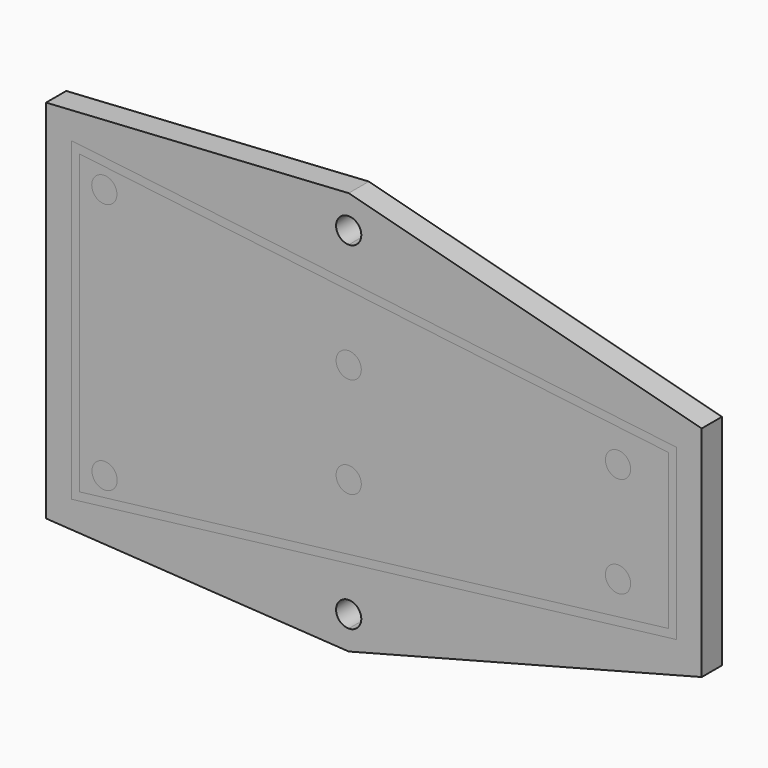
from build123d import *

# Parameters (mm, degrees)
F0_R     = 3.175
F1_DEPTH = 6.35
F2_DEPTH = 6.35
F3_DEPTH = 5.08
F4_DEPTH = 9.525


with BuildPart() as f1:
    # F0 (on Front) → F1 (new body)
    with BuildSketch(Plane.XZ):
        with BuildLine():
            Line((0, 9.525), (0, 0))
            Line((0, 0), (80.518, 0))
            Line((80.518, 0), (80.518, 19.5096507962))
            Line((80.518, 19.5096507962), (0, 29.2523287962))
            Line((0, 29.2523287962), (0, 15.875))
            ThreePointArc((0, 15.875), (2.2450640303, 14.9450640303), (3.175, 12.7))
            ThreePointArc((3.175, 12.7), (2.2450640303, 10.4549359697), (0, 9.525))
        make_face()
        with Locations((67.818, 12.7)):
            Circle(F0_R, mode=Mode.SUBTRACT)
        with BuildLine():
            Line((-67.818, 0), (0, 0))
            Line((0, 0), (0, 9.525))
            ThreePointArc((0, 9.525), (-3.175, 12.7), (0, 15.875))
            Line((0, 15.875), (0, 29.2523287962))
            Line((0, 29.2523287962), (-67.818, 37.4583067962))
            Line((-67.818, 37.4583067962), (-67.818, 31.567312777))
            Line((-67.818, 31.567312777), (-67.818, 0))
        make_face()
        with BuildLine():
            ThreePointArc((-58.3583989263, 31.567312777), (-61.5333989263, 28.392312777), (-64.7083989263, 31.567312777))
            ThreePointArc((-64.7083989263, 31.567312777), (-61.5333989263, 34.742312777), (-58.3583989263, 31.567312777))
        make_face(mode=Mode.SUBTRACT)
        with BuildLine():
            Line((0, -9.525), (0, 0))
            Line((0, 0), (-67.818, 0))
            Line((-67.818, 0), (-67.818, -31.8008))
            Line((-67.818, -31.8008), (-67.818, -37.4583067962))
            Line((-67.818, -37.4583067962), (0, -29.2523287962))
            Line((0, -29.2523287962), (0, -15.875))
            ThreePointArc((0, -15.875), (-3.175, -12.7), (0, -9.525))
        make_face()
        with BuildLine():
            ThreePointArc((-58.293, -31.8008), (-61.468, -34.9758), (-64.643, -31.8008))
            ThreePointArc((-64.643, -31.8008), (-61.468, -28.6258), (-58.293, -31.8008))
        make_face(mode=Mode.SUBTRACT)
        with BuildLine():
            Line((80.518, 0), (0, 0))
            Line((0, 0), (0, -9.525))
            ThreePointArc((0, -9.525), (2.2450640303, -10.4549359697), (3.175, -12.7))
            ThreePointArc((3.175, -12.7), (2.2450640303, -14.9450640303), (0, -15.875))
            Line((0, -15.875), (0, -29.2523287962))
            Line((0, -29.2523287962), (80.518, -19.5096507962))
            Line((80.518, -19.5096507962), (80.518, 0))
        make_face()
        with Locations((67.818, -12.7)):
            Circle(F0_R, mode=Mode.SUBTRACT)
    extrude(amount=-F1_DEPTH)


with BuildPart() as f2:
    # F0 (on Front) → F2 (new body)
    with BuildSketch(Plane.XZ):
        with BuildLine():
            Line((82.55, 21.3106), (82.55, 0))
            Line((82.55, 0), (88.9, 0))
            Line((88.9, 0), (88.9, 27.559))
            Line((88.9, 27.559), (0, 50.8))
            Line((0, 50.8), (0, 45.72))
            ThreePointArc((0, 45.72), (2.2450640303, 44.7900640303), (3.175, 42.545))
            ThreePointArc((3.175, 42.545), (2.2450640303, 40.2999359697), (0, 39.37))
            Line((0, 39.37), (0, 31.29915))
            Line((0, 31.29915), (82.55, 21.3106))
        make_face()
        with BuildLine():
            Line((88.9, 0), (82.55, 0))
            Line((82.55, 0), (82.55, -21.3106))
            Line((82.55, -21.3106), (0, -31.29915))
            Line((0, -31.29915), (0, -39.37))
            ThreePointArc((0, -39.37), (2.2450640303, -40.2999359697), (3.175, -42.545))
            ThreePointArc((3.175, -42.545), (2.2450640303, -44.7900640303), (0, -45.72))
            Line((0, -45.72), (0, -50.8))
            Line((0, -50.8), (88.9, -27.559))
            Line((88.9, -27.559), (88.9, 0))
        make_face()
        with BuildLine():
            Line((-69.85, -37.7041787962), (-69.85, 0))
            Line((-69.85, 0), (-76.2, 0))
            Line((-76.2, 0), (-76.2, -46.101))
            Line((-76.2, -46.101), (0, -50.8))
            Line((0, -50.8), (0, -45.72))
            ThreePointArc((0, -45.72), (-3.175, -42.545), (0, -39.37))
            Line((0, -39.37), (0, -31.29915))
            Line((0, -31.29915), (-67.818, -39.505128))
            Line((-67.818, -39.505128), (-69.85, -39.751))
            Line((-69.85, -39.751), (-69.85, -37.7041787962))
        make_face()
        with BuildLine():
            Line((-76.2, 0), (-69.85, 0))
            Line((-69.85, 0), (-69.85, 37.7041787962))
            Line((-69.85, 37.7041787962), (-69.85, 39.751))
            Line((-69.85, 39.751), (-67.818, 39.505128))
            Line((-67.818, 39.505128), (0, 31.29915))
            Line((0, 31.29915), (0, 39.37))
            ThreePointArc((0, 39.37), (-3.175, 42.545), (0, 45.72))
            Line((0, 45.72), (0, 50.8))
            Line((0, 50.8), (-76.2, 46.101))
            Line((-76.2, 46.101), (-76.2, 0))
        make_face()
    extrude(amount=-F2_DEPTH)


with BuildPart() as f3:
    # F0 (on Front) → F3 (new body)
    with BuildSketch(Plane.XZ):
        Polygon((80.518, 19.5096507962), (80.518, 0), (82.55, 0), (82.55, 21.3106), (0, 31.29915), (0, 29.2523287962), align=None)
        Polygon((-67.818, 37.4583067962), (0, 29.2523287962), (0, 31.29915), (-67.818, 39.505128), align=None)
        Polygon((-69.85, 0), (-67.818, 0), (-67.818, 31.567312777), (-67.818, 37.4583067962), (-69.85, 37.7041787962), align=None)
        Polygon((-69.85, 39.751), (-69.85, 37.7041787962), (-67.818, 37.4583067962), (-67.818, 39.505128), align=None)
        Polygon((-67.818, -31.8008), (-67.818, 0), (-69.85, 0), (-69.85, -37.7041787962), (-67.818, -37.4583067962), align=None)
        Polygon((-67.818, -37.4583067962), (-69.85, -37.7041787962), (-69.85, -39.751), (-67.818, -39.505128), align=None)
        Polygon((0, -31.29915), (0, -29.2523287962), (-67.818, -37.4583067962), (-67.818, -39.505128), align=None)
        Polygon((82.55, 0), (80.518, 0), (80.518, -19.5096507962), (0, -29.2523287962), (0, -31.29915), (82.55, -21.3106), align=None)
    extrude(amount=-F3_DEPTH)


with BuildPart() as f4:
    # F0 (on Front) → F4 (new body)
    with BuildSketch(Plane.XZ):
        with BuildLine():
            ThreePointArc((-58.3583989263, 31.567312777), (-61.5333989263, 34.742312777), (-64.7083989263, 31.567312777))
            ThreePointArc((-64.7083989263, 31.567312777), (-61.5333989263, 28.392312777), (-58.3583989263, 31.567312777))
        make_face()
    extrude(amount=-F4_DEPTH)


with BuildPart() as f4b:
    # F0 (on Front) → F4, piece 2 (new body)
    with BuildSketch(Plane.XZ):
        with BuildLine():
            ThreePointArc((-58.293, -31.8008), (-61.468, -28.6258), (-64.643, -31.8008))
            ThreePointArc((-64.643, -31.8008), (-61.468, -34.9758), (-58.293, -31.8008))
        make_face()
    extrude(amount=-F4_DEPTH)


with BuildPart() as f4c:
    # F0 (on Front) → F4, piece 3 (new body)
    with BuildSketch(Plane.XZ):
        with Locations((67.818, -12.7)):
            Circle(F0_R)
    extrude(amount=-F4_DEPTH)


with BuildPart() as f4d:
    # F0 (on Front) → F4, piece 4 (new body)
    with BuildSketch(Plane.XZ):
        with BuildLine():
            Line((0, -15.875), (0, -9.525))
            ThreePointArc((0, -9.525), (-3.175, -12.7), (0, -15.875))
        make_face()
        with BuildLine():
            ThreePointArc((3.175, -12.7), (2.2450640303, -10.4549359697), (0, -9.525))
            Line((0, -9.525), (0, -15.875))
            ThreePointArc((0, -15.875), (2.2450640303, -14.9450640303), (3.175, -12.7))
        make_face()
    extrude(amount=-F4_DEPTH)


with BuildPart() as f4e:
    # F0 (on Front) → F4, piece 5 (new body)
    with BuildSketch(Plane.XZ):
        with BuildLine():
            Line((0, 15.875), (0, 9.525))
            ThreePointArc((0, 9.525), (2.2450640303, 10.4549359697), (3.175, 12.7))
            ThreePointArc((3.175, 12.7), (2.2450640303, 14.9450640303), (0, 15.875))
        make_face()
        with BuildLine():
            ThreePointArc((0, 15.875), (-3.175, 12.7), (0, 9.525))
            Line((0, 9.525), (0, 15.875))
        make_face()
    extrude(amount=-F4_DEPTH)


with BuildPart() as f4f:
    # F0 (on Front) → F4, piece 6 (new body)
    with BuildSketch(Plane.XZ):
        with Locations((67.818, 12.7)):
            Circle(F0_R)
    extrude(amount=-F4_DEPTH)


solid = Compound([f1.part, f2.part, f3.part, f4.part, f4b.part, f4c.part, f4d.part, f4e.part, f4f.part])
